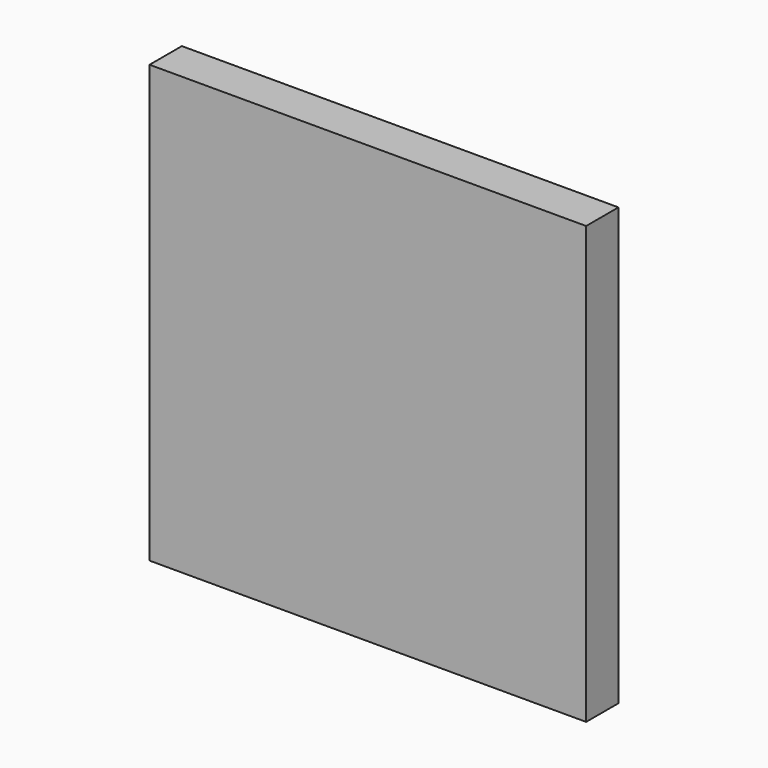
from build123d import *

# Parameters (mm, degrees)
F0_W     = 549.275
F0_H     = 549.275
F0_W_2   = 63.5
F0_H_2   = 63.5
F1_DEPTH = 50.8


with BuildPart() as f1:
    # F0 (on Front) → F1 (new body)
    with BuildSketch(Plane.XZ):
        Rectangle(F0_W, F0_H)
        with Locations((-241.6175, -241.6175)):
            Rectangle(F0_W_2, F0_H_2, mode=Mode.SUBTRACT)
        with Locations((241.6175, -241.6175)):
            Rectangle(F0_W_2, F0_H_2, mode=Mode.SUBTRACT)
        with Locations((-241.6175, 241.6175)):
            Rectangle(F0_W_2, F0_H_2, mode=Mode.SUBTRACT)
        with Locations((241.6175, 241.6175)):
            Rectangle(F0_W_2, F0_H_2, mode=Mode.SUBTRACT)
        with Locations((241.6175, 241.6175)):
            Rectangle(F0_W_2, F0_H_2)
        with Locations((-241.6175, 241.6175)):
            Rectangle(F0_W_2, F0_H_2)
        with Locations((-241.6175, -241.6175)):
            Rectangle(F0_W_2, F0_H_2)
        with Locations((241.6175, -241.6175)):
            Rectangle(F0_W_2, F0_H_2)
    extrude(amount=F1_DEPTH)


solid = f1.part
